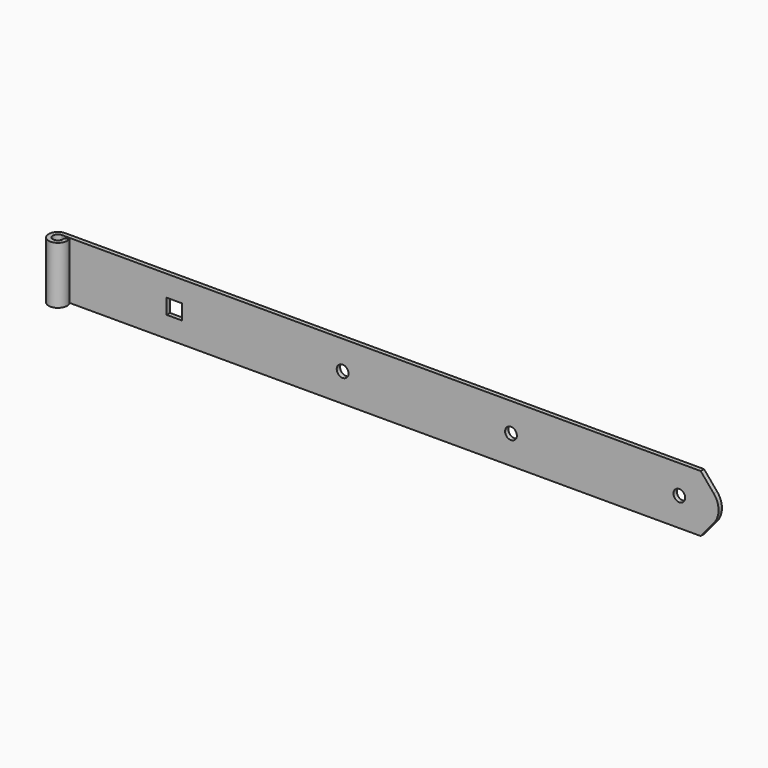
from build123d import *

# Parameters (mm, degrees)
F1_DEPTH = 17
F2_W     = 9
F2_H     = 9
F2_R     = 3.5
F3_DEPTH = 2.5


with BuildPart() as f1:
    # F0 (on Top) → F1 (new body, symmetric)
    with BuildSketch(Plane.XY):
        with BuildLine():
            Line((400, 3), (400, 5.5))
            Line((400, 5.5), (0, 5.5))
            ThreePointArc((0, 5.5), (-3.102418, -4.541476), (5.123475, 2))
            Line((5.123475, 2), (2.794623, 1.090909))
            ThreePointArc((2.794623, 1.090909), (-1.692228, -2.477168), (0, 3))
            Line((0, 3), (400, 3))
        make_face()
    extrude(amount=F1_DEPTH, both=True)

    # F2 (on face) → F3 (cut, through all)
    with BuildSketch(Plane.XZ.offset(-3)):
        with BuildLine():
            Line((400, 17), (379.400194, 17))
            Line((379.400194, 17), (387.192533, 7.713451))
            ThreePointArc((387.192533, 7.713451), (390, 0), (387.192533, -7.713451))
            Line((387.192533, -7.713451), (379.400194, -17))
            Line((379.400194, -17), (400, -17))
            Line((400, -17), (400, 17))
        make_face()
        with Locations((66.7, 0)):
            Rectangle(F2_W, F2_H)
        with Locations((166.7, 0)):
            Circle(F2_R)
        with Locations((266.7, 0)):
            Circle(F2_R)
        with Locations((366.7, 0)):
            Circle(F2_R)
    extrude(amount=-F3_DEPTH, mode=Mode.SUBTRACT)


solid = f1.part
